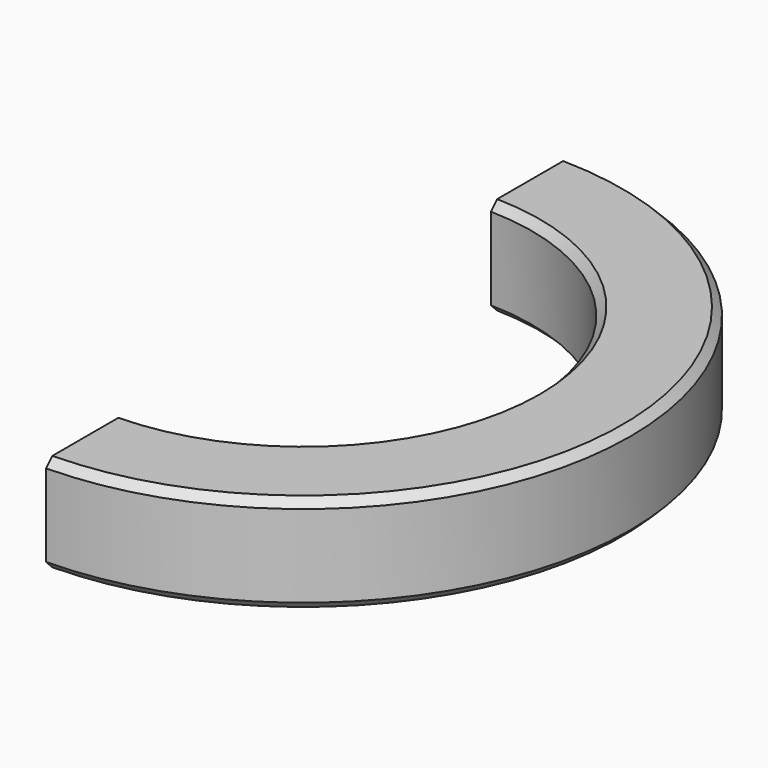
from build123d import *

# Parameters (mm, degrees)
F1_DEPTH = 9.525
F2_SIZE  = 0.762


with BuildPart() as f1:
    # F0 (on Top) → F1 (new body)
    with BuildSketch(Plane.XY):
        with BuildLine():
            ThreePointArc((0.4445, 22.220555), (22.225, 0), (0.4445, -22.220555))
            Line((0.4445, -22.220555), (0.4445, -31.746888))
            ThreePointArc((0.4445, -31.746888), (31.75, 0), (0.4445, 31.746888))
            Line((0.4445, 31.746888), (0.4445, 22.220555))
        make_face()
    extrude(amount=F1_DEPTH)

    # F2
    f2_edges = [f1.edges().sort_by_distance(p)[0] for p in [
        (31.75, 0, 9.525),
        (31.75, 0, 0),
        (22.225, 0, 9.525),
        (22.225, 0, 0),
    ]]
    chamfer(f2_edges, length=F2_SIZE)


solid = f1.part
